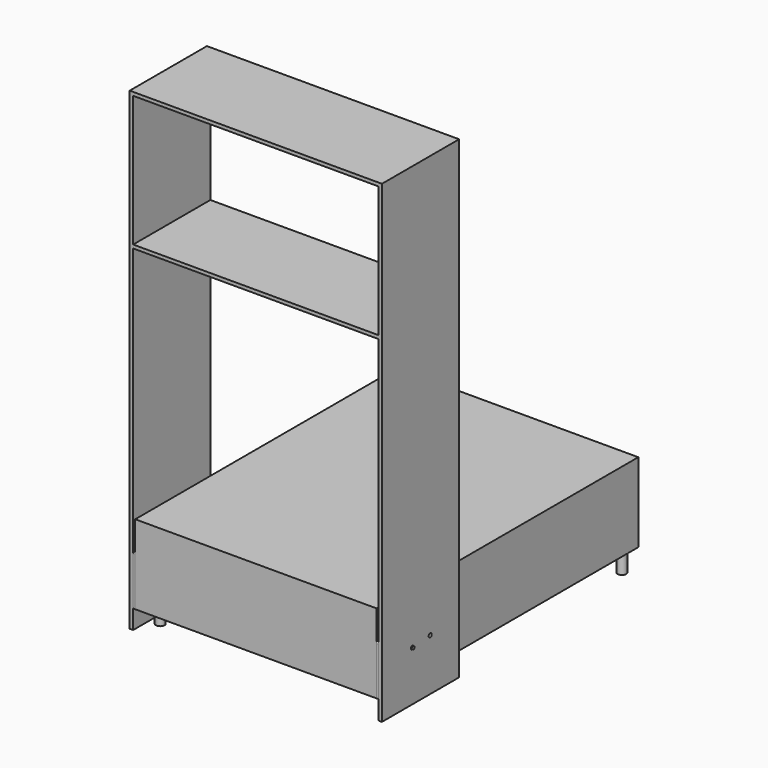
from build123d import *

# Parameters (mm, degrees)
F0_W      = 1400
F0_H      = 1900
F1_DEPTH  = 460
F2_R      = 25
F3_DEPTH  = 110
F5_DEPTH  = 12
F6_R      = 10
F7_DEPTH  = 25
F10_W     = 560
F10_H     = 2750
F11_DEPTH = 20
F12_W     = 560
F12_H     = 20
F13_DEPTH = 1440
F15_R     = 11
F16_DEPTH = 1469.001


with BuildPart() as f1:
    # F0 (on Top) → F1 (new body)
    with BuildSketch(Plane.XY):
        with Locations((700, 950)):
            Rectangle(F0_W, F0_H)
    extrude(amount=F1_DEPTH)

    # F2 (on face) → F3 (join)
    with BuildSketch(Plane(origin=(0, 0, 0), x_dir=(1, 0, 0), z_dir=(0, 0, -1))):
        with Locations((45, -125)):
            Circle(F2_R)
        with Locations((45, -1825)):
            Circle(F2_R)
        with Locations((1365, -125)):
            Circle(F2_R)
        with Locations((1365, -1825)):
            Circle(F2_R)
        with Locations((225, -950)):
            Circle(F2_R)
        with Locations((1175, -950)):
            Circle(F2_R)
    extrude(amount=F3_DEPTH)


with BuildPart() as f5:
    # F4 (on face) → F5 (new body)
    with BuildSketch(Plane.YZ.offset(1400)):
        with BuildLine():
            Line((200, 300), (20, 300))
            ThreePointArc((20, 300), (5.8578643763, 294.1421356237), (0, 280))
            Line((0, 280), (0, 0))
            Line((0, 0), (300, 0))
            Line((300, 0), (300, 200))
            ThreePointArc((300, 200), (270.7106781187, 270.7106781187), (200, 300))
        make_face()
    extrude(amount=F5_DEPTH)

    # F6 (on face) → F7 (join)
    with BuildSketch(Plane.YZ.offset(1412)):
        with Locations((220, 180)):
            Circle(F6_R)
    extrude(amount=F7_DEPTH)


with BuildPart() as f9_1:
    # F9: instance of F5
    add(f5.part.mirror(Plane.YZ.offset(700)))


with BuildPart() as f11:
    # F10 (on face) → F11 (new body)
    with BuildSketch(Plane.YZ.offset(1412)):
        with Locations((280, 1265)):
            Rectangle(F10_W, F10_H)
    extrude(amount=F11_DEPTH)

    # F12 (on face) → F13 (join)
    with BuildSketch(Plane(origin=(1412, 0, 0), x_dir=(0, -1, 0), z_dir=(-1, 0, 0))):
        with Locations((-280, 2630)):
            Rectangle(F12_W, F12_H)
        with Locations((-280, 1850)):
            Rectangle(F12_W, F12_H)
    extrude(amount=F13_DEPTH)

    # F14: F11 across plane


with BuildPart() as f11_1:
    add(f11.part)
    add(f11.part.mirror(Plane.YZ.offset(700)))

    # F15 (on face) → F16 (cut, through all)
    with BuildSketch(Plane.YZ.offset(1432)):
        with Locations((350, 190)):
            Circle(F15_R)
    extrude(amount=-F16_DEPTH, mode=Mode.SUBTRACT)


solid = Compound([f1.part, f5.part, f9_1.part, f11_1.part])
